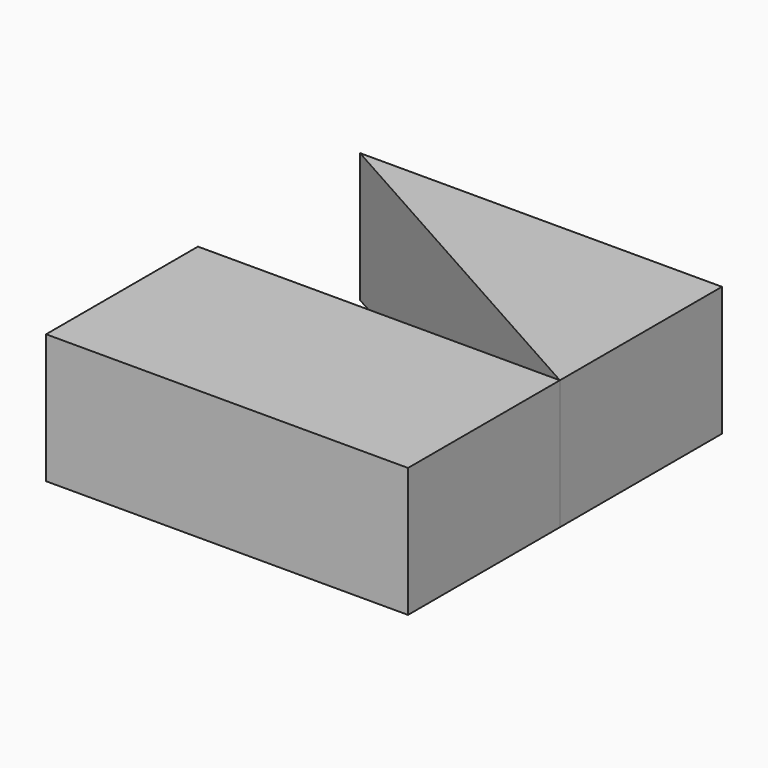
from build123d import *

# Parameters (mm, degrees)
F0_W     = 71.048328653
F0_H     = 37.2644886374
F1_DEPTH = 25.4


with BuildPart() as f1:
    # F0 (on Top) → F1 (new body)
    with BuildSketch(Plane.XY):
        with Locations((-5.1018660888, -18.6322443187)):
            Rectangle(F0_W, F0_H)
    extrude(amount=F1_DEPTH)


with BuildPart() as f1b:
    # F0 (on Top) → F1, piece 2 (new body)
    with BuildSketch(Plane.XY):
        Polygon((-40.6260304153, 39.7608242929), (30.4222982377, 0), (30.4222982377, 39.7608242929), align=None)
    extrude(amount=F1_DEPTH)


solid = Compound([f1.part, f1b.part])
